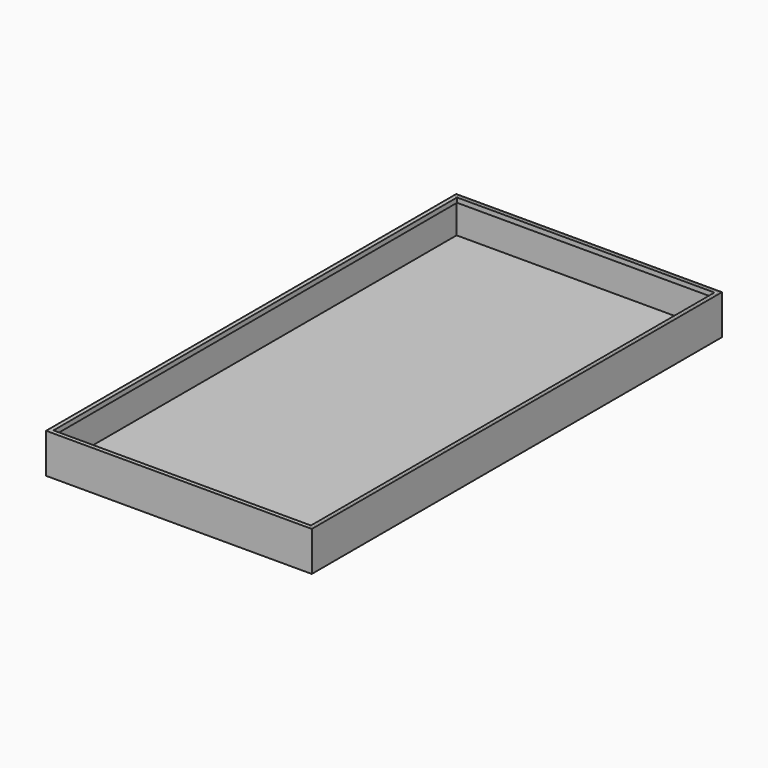
from build123d import *

# Parameters (mm, degrees)
F0_W     = 71
F0_H     = 137
F1_DEPTH = 1.25
F2_W     = 0.5
F2_H     = 0.5
F3_DEPTH = 8.1
F4_W     = 71
F4_H     = 137
F5_DEPTH = 1.25
F6_W     = 69.4
F6_H     = 0.6
F6_W_2   = 0.6
F6_H_2   = 135.4
F7_DEPTH = 1.25


with BuildPart() as f1:
    # F0 (on Top) → F1 (new body)
    with BuildSketch(Plane.XY):
        with Locations((0, -1.7288960686)):
            Rectangle(F0_W, F0_H)
    extrude(amount=F1_DEPTH)

    # F2 (on face) → F3 (join)
    with BuildSketch(Plane.XY.offset(1.25)):
        with Locations((-35.25, 66.5211039314)):
            Rectangle(F2_W, F2_H)
        with Locations((35.25, -69.9788960686)):
            Rectangle(F2_W, F2_H)
        Polygon((-35, 66.2711039314), (-35.5, 66.2711039314), (-35.5, -70.2288960686), (35, -70.2288960686), (35, -69.7288960686), (-35, -69.7288960686), align=None)
        Polygon((35.5, 66.7711039314), (-35, 66.7711039314), (-35, 66.2711039314), (35, 66.2711039314), (35, -69.7288960686), (35.5, -69.7288960686), align=None)
    extrude(amount=F3_DEPTH)

    # F4 (on face) → F5 (join)
    with BuildSketch(Plane.XY.offset(9.35)):
        with Locations((0, -1.7288960686)):
            Rectangle(F4_W, F4_H)
        Polygon((-35, 65.6711039314), (-35, 66.2711039314), (-34.4, 66.2711039314), (35, 66.2711039314), (35, -69.1288960686), (35, -69.7288960686), (34.4, -69.7288960686), (-35, -69.7288960686), align=None, mode=Mode.SUBTRACT)
        Polygon((-34.4, 65.6711039314), (-35, 65.6711039314), (-35, -69.7288960686), (34.4, -69.7288960686), (34.4, -69.1288960686), (-34.4, -69.1288960686), align=None)
    extrude(amount=F5_DEPTH)


with BuildPart() as f7:
    # F6 (on face) → F7 (new body)
    with BuildSketch(Plane.XY.offset(10.6)):
        with Locations((-0.3, 65.9711039314)):
            Rectangle(F6_W, F6_H)
        with Locations((34.7, 65.9711039314)):
            Rectangle(F6_W_2, F6_H)
        with Locations((34.7, -2.0288960686)):
            Rectangle(F6_W_2, F6_H_2)
    extrude(amount=-F7_DEPTH)


solid = Compound([f1.part, f7.part])
